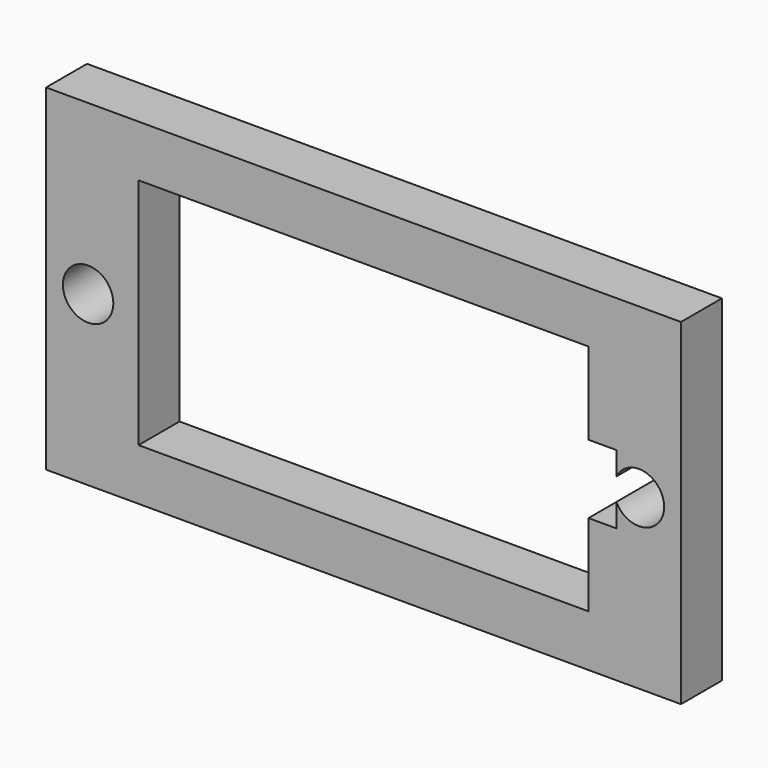
from build123d import *

# Parameters (mm, degrees)
SKETCH_W        = 32.240891
SKETCH_H        = 17.088121
PAD_DEPTH       = 2.6
SKETCH002_R     = 1.28
SKETCH002_W     = 22.850001
SKETCH002_H     = 11.84
POCKET_DEPTH    = 2.6
SKETCH003_W     = 2.01
SKETCH003_H     = 3.5
POCKET001_DEPTH = 5


with BuildPart() as part:
    # Sketch → Pad (new body)
    with BuildSketch(Plane.XZ):
        with Locations((16.120445, 8.54406)):
            Rectangle(SKETCH_W, SKETCH_H)
    extrude(amount=PAD_DEPTH)

    # Sketch002 (on Face6 of Pad) → Pocket (cut)
    with BuildSketch(Plane.XZ.offset(2.6)):
        with Locations((30.105934, 8.54406)):
            Circle(SKETCH002_R)
        with Locations((2.134957, 8.54406)):
            Circle(SKETCH002_R)
        with Locations((16.120445, 8.544061)):
            Rectangle(SKETCH002_W, SKETCH002_H)
    extrude(amount=-POCKET_DEPTH, mode=Mode.SUBTRACT)

    # Sketch003 (on Face4 of Pocket) → Pocket001 (cut)
    with BuildSketch(Plane(origin=(0, 0, 0), x_dir=(1, 0, 0), z_dir=(0, 1, 0))):
        with Locations((27.953742, -8.544061)):
            Rectangle(SKETCH003_W, SKETCH003_H)
    extrude(amount=-POCKET001_DEPTH, mode=Mode.SUBTRACT)


solid = part.part
